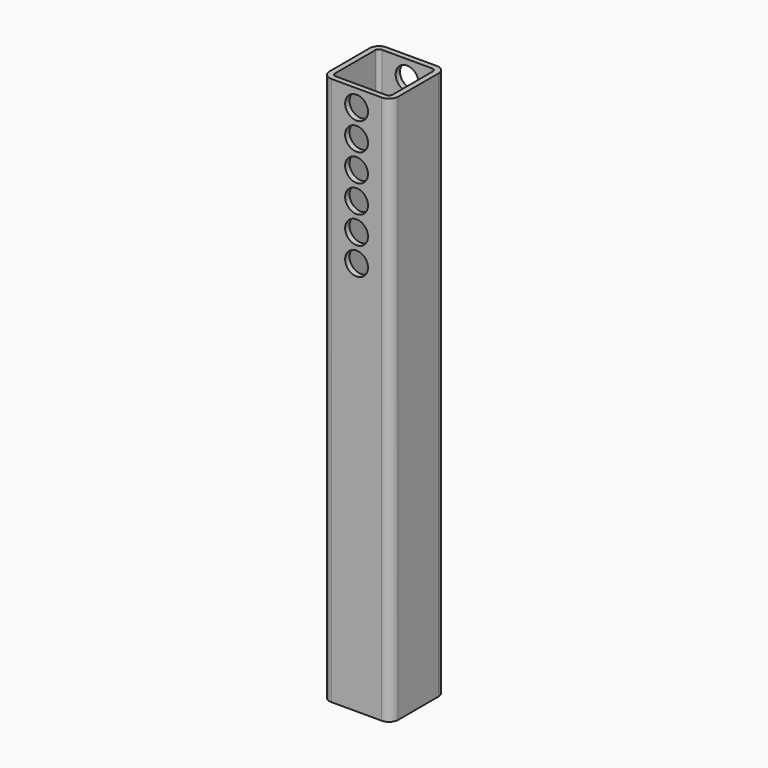
from build123d import *

# Parameters (mm, degrees)
F1_DEPTH = 152.4
F2_R     = 3.175
F3_DEPTH = 25.4


with BuildPart() as f1:
    # F0 (on Top) → F1 (new body)
    with BuildSketch(Plane.XY):
        with BuildLine():
            ThreePointArc((1.214596, 2.54), (1.958545, 0.743949), (3.754596, 0))
            Line((3.754596, 0), (17.724596, 0))
            ThreePointArc((17.724596, 0), (19.520648, 0.743949), (20.264596, 2.54))
            Line((20.264596, 2.54), (20.264596, 16.51))
            ThreePointArc((20.264596, 16.51), (19.520648, 18.306051), (17.724596, 19.05))
            Line((17.724596, 19.05), (3.754596, 19.05))
            ThreePointArc((3.754596, 19.05), (1.958545, 18.306051), (1.214596, 16.51))
            Line((1.214596, 16.51), (1.214596, 2.54))
        make_face()
        with BuildLine():
            ThreePointArc((3.754596, 1.524), (3.036176, 1.821579), (2.738596, 2.54))
            Line((2.738596, 2.54), (2.738596, 16.51))
            ThreePointArc((2.738596, 16.51), (3.036176, 17.228421), (3.754596, 17.526))
            Line((3.754596, 17.526), (17.724596, 17.526))
            ThreePointArc((17.724596, 17.526), (18.443017, 17.228421), (18.740596, 16.51))
            Line((18.740596, 16.51), (18.740596, 2.54))
            ThreePointArc((18.740596, 2.54), (18.443017, 1.821579), (17.724596, 1.524))
            Line((17.724596, 1.524), (3.754596, 1.524))
        make_face(mode=Mode.SUBTRACT)
    extrude(amount=F1_DEPTH)

    # F2 (on face) → F3 (cut)
    with BuildSketch(Plane.XZ):
        with Locations((10.739596, 147.649508)):
            Circle(F2_R)
        with Locations((10.739596, 140.029508)):
            Circle(F2_R)
        with Locations((10.739596, 132.409508)):
            Circle(F2_R)
        with Locations((10.739596, 124.789508)):
            Circle(F2_R)
        with Locations((10.739596, 117.169508)):
            Circle(F2_R)
        with Locations((10.739596, 109.549508)):
            Circle(F2_R)
    extrude(amount=-F3_DEPTH, mode=Mode.SUBTRACT)


solid = f1.part
